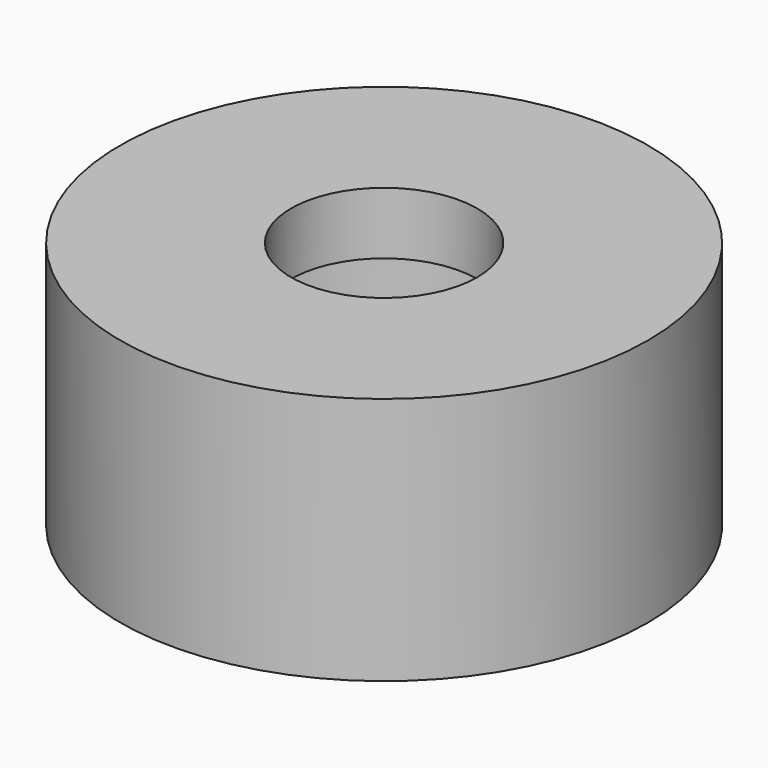
from build123d import *

# Parameters (mm, degrees)
F0_R     = 8.5
F0_R_2   = 5.5
F1_DEPTH = 8
F0_R_3   = 3
F2_DEPTH = 8
F3_DEPTH = 6


with BuildPart() as f1:
    # F0 (on Top) → F1 (new body)
    with BuildSketch(Plane.XY):
        Circle(F0_R)
        Circle(F0_R_2, mode=Mode.SUBTRACT)
    extrude(amount=F1_DEPTH)

    # F0 (on Top) → F2 (join)
    with BuildSketch(Plane.XY):
        Circle(F0_R_2)
        Circle(F0_R_3, mode=Mode.SUBTRACT)
    extrude(amount=F2_DEPTH)

    # F0 (on Top) → F3 (cut)
    with BuildSketch(Plane.XY):
        Circle(F0_R_2)
        Circle(F0_R_3, mode=Mode.SUBTRACT)
    extrude(amount=F3_DEPTH, mode=Mode.SUBTRACT)


solid = f1.part
